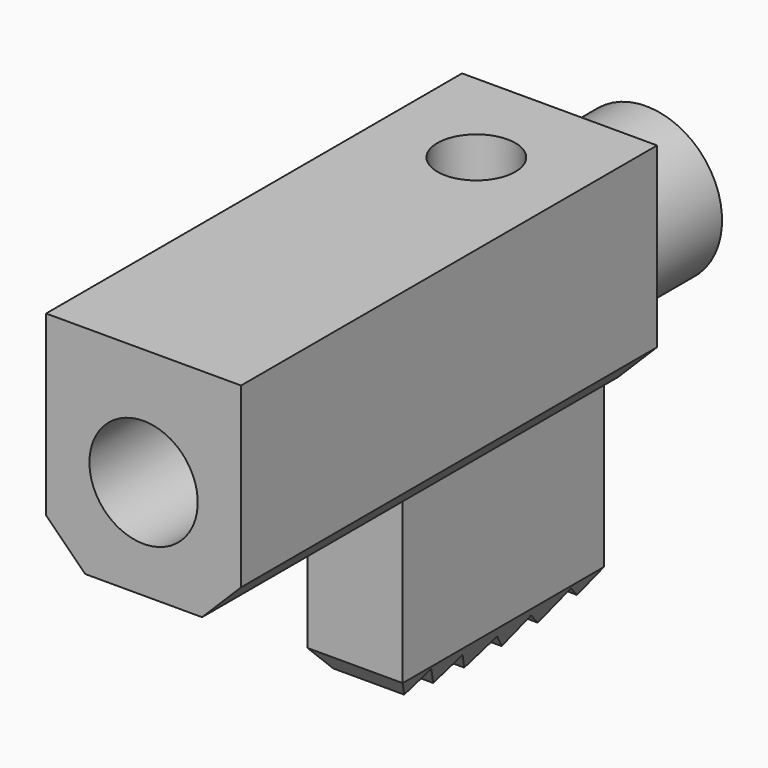
from build123d import *

# Parameters (mm, degrees)
F0_W      = 114.3
F0_H      = 127
F1_DEPTH  = 304.8
F2_SIZE2  = 22.86
F2_SIZE   = 22.86
F4_D      = 63.5
F5_R      = 44.45
F5_R_2    = 31.75
F6_DEPTH  = 63.5
F8_W      = 55.88
F8_H      = 99.06
F9_DEPTH  = 147.32
F11_DEPTH = 55.88
F13_DEPTH = 302.261
F14_R     = 22.86
F15_DEPTH = 208.28


with BuildPart() as f1:
    # F0 (on Front) → F1 (new body)
    with BuildSketch(Plane.XZ):
        Rectangle(F0_W, F0_H)
    extrude(amount=-F1_DEPTH)

    # F2
    f2_edges = [f1.edges().sort_by_distance(p)[0] for p in [
        (57.15, 152.4, -63.5),
        (-57.15, 152.4, -63.5),
    ]]
    chamfer(f2_edges, length=F2_SIZE, length2=F2_SIZE2)

    # F4 (through all)
    with Locations(Plane.XZ):
        with Locations((0, -5.08)):
            Hole(F4_D / 2)

    # F5 (on face) → F6 (join)
    with BuildSketch(Plane(origin=(0, 304.8, 0), x_dir=(-1, 0, 0), z_dir=(0, 1, 0))):
        with Locations((0, -5.08)):
            Circle(F5_R)
        with Locations((0, -5.08)):
            Circle(F5_R_2, mode=Mode.SUBTRACT)
    extrude(amount=F6_DEPTH)

    # F8 (on offset) → F9 (join)
    with BuildSketch(Plane.XZ.offset(-154.94)):
        with Locations((0, -113.03)):
            Rectangle(F8_W, F8_H)
    extrude(amount=-F9_DEPTH)

    # F10 (on face) → F11 (join)
    with BuildSketch(Plane(origin=(-27.94, 0, 0), x_dir=(0, -1, 0), z_dir=(-1, 0, 0))):
        Polygon((-214.4107755243, -182.4833633625), (-203.3772818135, -168.8581333524), (-189.7520518034, -179.8916270632), (-177.4465882231, -164.6956450781), (-164.8980907601, -174.8572179642), (-154.94, -162.56), (-302.26, -162.56), (-291.6130993959, -174.939645827), (-279.7122911913, -164.7045612509), (-266.5302445016, -180.0319391764), (-253.5688132322, -168.8846840497), (-241.828860398, -182.5352724715), (-229.6067575095, -170.1778997822), align=None)
    extrude(amount=-F11_DEPTH)

    # F12 (on face) → F13 (cut, through all)
    with BuildSketch(Plane(origin=(0, 302.26, 0), x_dir=(-1, 0, 0), z_dir=(0, 1, 0))):
        Polygon((-13.8513900767, -186.9621881951), (-27.94, -162.56), (-27.94, -186.9621881951), align=None)
        Polygon((27.94, -186.9621881951), (27.94, -162.56), (13.8513900767, -186.9621881951), align=None)
    extrude(amount=-F13_DEPTH, mode=Mode.SUBTRACT)

    # F14 (on face) → F15 (cut)
    with BuildSketch(Plane.XY.offset(63.5)):
        with Locations((0, 243.84)):
            Circle(F14_R)
    extrude(amount=-F15_DEPTH, mode=Mode.SUBTRACT)


solid = f1.part
